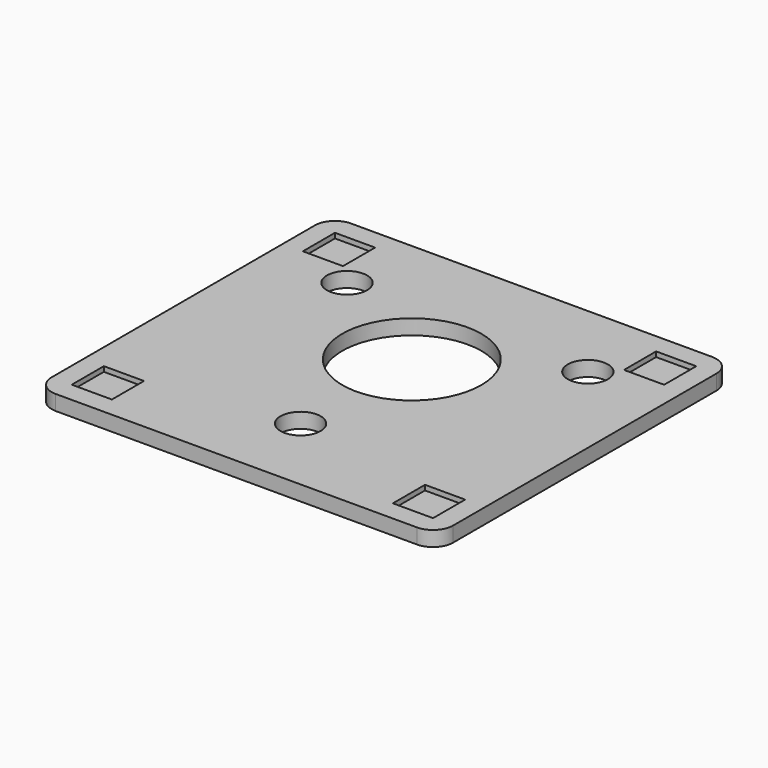
from build123d import *

# Parameters (mm, degrees)
F0_W     = 508
F0_H     = 467.164543
F0_W_2   = 50.8
F0_H_2   = 50.8
F0_R     = 25.4
F0_R_2   = 87.988181
F1_DEPTH = 19.05
F2_R     = 25.4
F3_DEPTH = 6.35
F4_DEPTH = 19.051


with BuildPart() as f1:
    # F0 (on Top) → F1 (new body)
    with BuildSketch(Plane.XY):
        with Locations((0, -43.99409)):
            Rectangle(F0_W, F0_H)
        with Locations((-203.2, -226.776362)):
            Rectangle(F0_W_2, F0_H_2, mode=Mode.SUBTRACT)
        with Locations((0, -175.976362)):
            Circle(F0_R, mode=Mode.SUBTRACT)
        with Locations((203.2, -226.776362)):
            Rectangle(F0_W_2, F0_H_2, mode=Mode.SUBTRACT)
        with Locations((-152.4, 87.988181)):
            Circle(F0_R, mode=Mode.SUBTRACT)
        with Locations((-203.2, 138.788181)):
            Rectangle(F0_W_2, F0_H_2, mode=Mode.SUBTRACT)
        Circle(F0_R_2, mode=Mode.SUBTRACT)
        with Locations((152.4, 87.988181)):
            Circle(F0_R, mode=Mode.SUBTRACT)
        with Locations((203.2, 138.788181)):
            Rectangle(F0_W_2, F0_H_2, mode=Mode.SUBTRACT)
        with Locations((-203.2, 138.788181)):
            Rectangle(F0_W_2, F0_H_2)
        with Locations((-203.2, -226.776362)):
            Rectangle(F0_W_2, F0_H_2)
        with Locations((203.2, -226.776362)):
            Rectangle(F0_W_2, F0_H_2)
        with Locations((203.2, 138.788181)):
            Rectangle(F0_W_2, F0_H_2)
        with Locations((-152.4, 87.988181)):
            Circle(F0_R)
        with Locations((152.4, 87.988181)):
            Circle(F0_R)
        with Locations((0, -175.976362)):
            Circle(F0_R)
    extrude(amount=-F1_DEPTH)

    # F2
    f2_edges = [f1.edges().sort_by_distance(p)[0] for p in [
        (-254, 189.588181, -9.525),
        (254, 189.588181, -9.525),
        (-254, -277.576362, -9.525),
        (254, -277.576362, -9.525),
    ]]
    fillet(f2_edges, radius=F2_R)

    # F0 (on Top) → F3 (cut)
    with BuildSketch(Plane.XY):
        with Locations((-203.2, -226.776362)):
            Rectangle(F0_W_2, F0_H_2)
        with Locations((-203.2, 138.788181)):
            Rectangle(F0_W_2, F0_H_2)
        with Locations((203.2, -226.776362)):
            Rectangle(F0_W_2, F0_H_2)
        with Locations((203.2, 138.788181)):
            Rectangle(F0_W_2, F0_H_2)
    extrude(amount=-F3_DEPTH, mode=Mode.SUBTRACT)

    # F0 (on Top) → F4 (cut, through all)
    with BuildSketch(Plane.XY):
        with Locations((-152.4, 87.988181)):
            Circle(F0_R)
        with Locations((0, -175.976362)):
            Circle(F0_R)
        with Locations((152.4, 87.988181)):
            Circle(F0_R)
    extrude(amount=-F4_DEPTH, mode=Mode.SUBTRACT)


solid = f1.part
